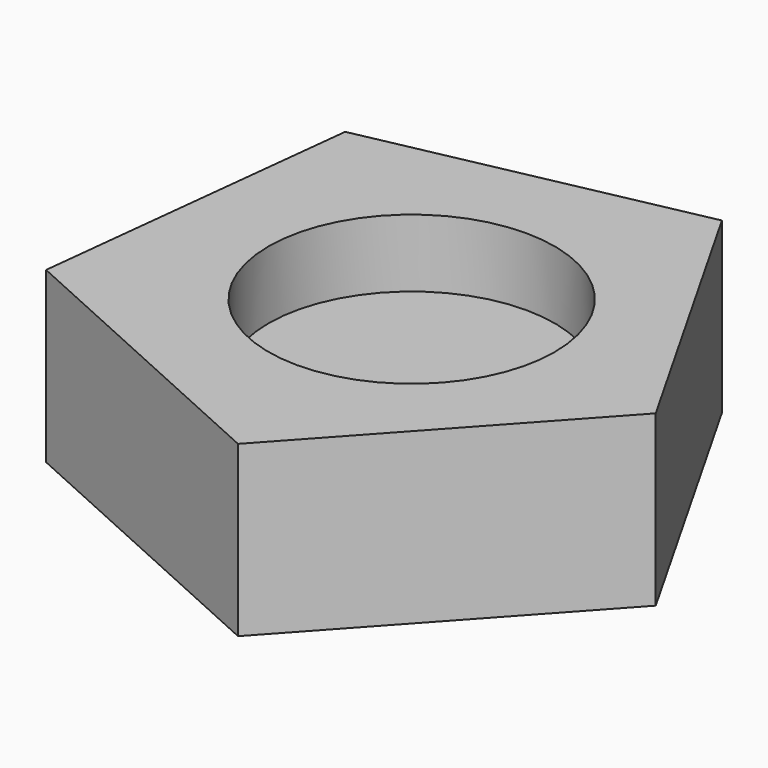
from build123d import *

# Parameters (mm, degrees)
F1_DEPTH = 25.4
F2_R     = 21.465598
F3_DEPTH = 10.16


with BuildPart() as f1:
    # F0 (on Top) → F1 (new body)
    with BuildSketch(Plane.XY):
        Polygon((8.512381, -41.27373), (41.884121, -4.658529), (17.373429, 38.394601), (-31.146751, 28.387697), (-36.62318, -20.85004), align=None)
    extrude(amount=F1_DEPTH)

    # F2 (on face) → F3 (cut, symmetric)
    with BuildSketch(Plane.XY.offset(25.4)):
        with Locations((1.460571, 0.100702)):
            Circle(F2_R)
    extrude(amount=F3_DEPTH, both=True, mode=Mode.SUBTRACT)


solid = f1.part
